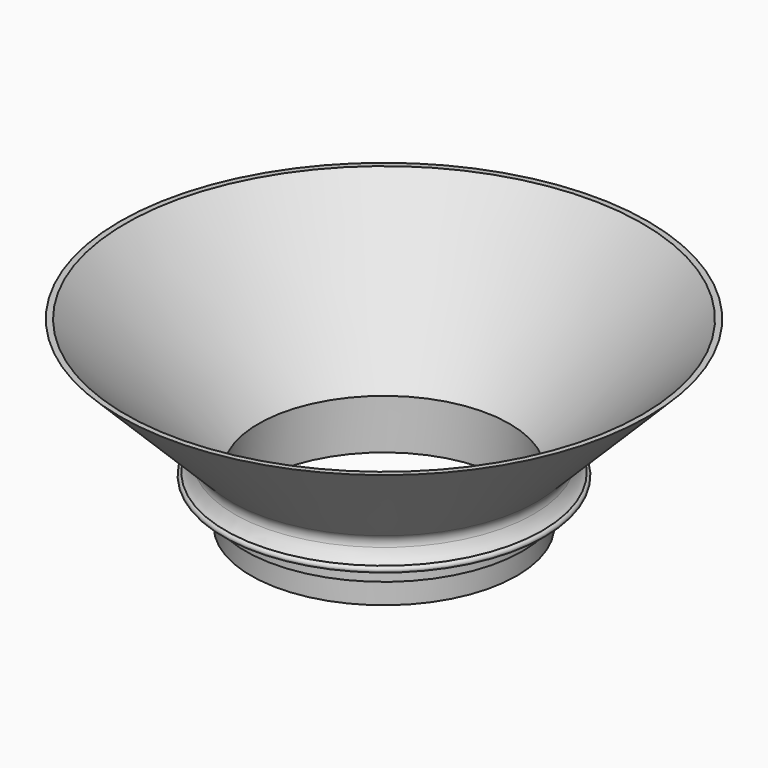
from build123d import *


with BuildPart() as part:
    # Sketch → Revolution (revolve)
    with BuildSketch(Plane.XZ):
        with BuildLine():
            Line((28.3, 0), (28.3, 5))
            Line((29.5, 5), (28.3, 5))
            Line((29.5, 9), (29.5, 5))
            Line((29.5, 9), (33.7, 9))
            ThreePointArc((33.7, 9), (34.3, 9.6), (33.7, 10.2))
            ThreePointArc((31.847889, 12.677454), (32.556883, 11.276455), (33.7, 10.2))
            ThreePointArc((32.472114, 15.172114), (31.814653, 14.011199), (31.847889, 12.677454))
            Line((56.2, 38.9), (32.472114, 15.172114))
            Line((55, 38.9), (56.2, 38.9))
            Line((26.7, 10.6), (55, 38.9))
            Line((26.7, 10.6), (26.7, 0))
            Line((26.7, 0), (28.3, 0))
        make_face()
    revolve(axis=Axis((0, 0, 0), (0, 0, 1)))


solid = part.part
